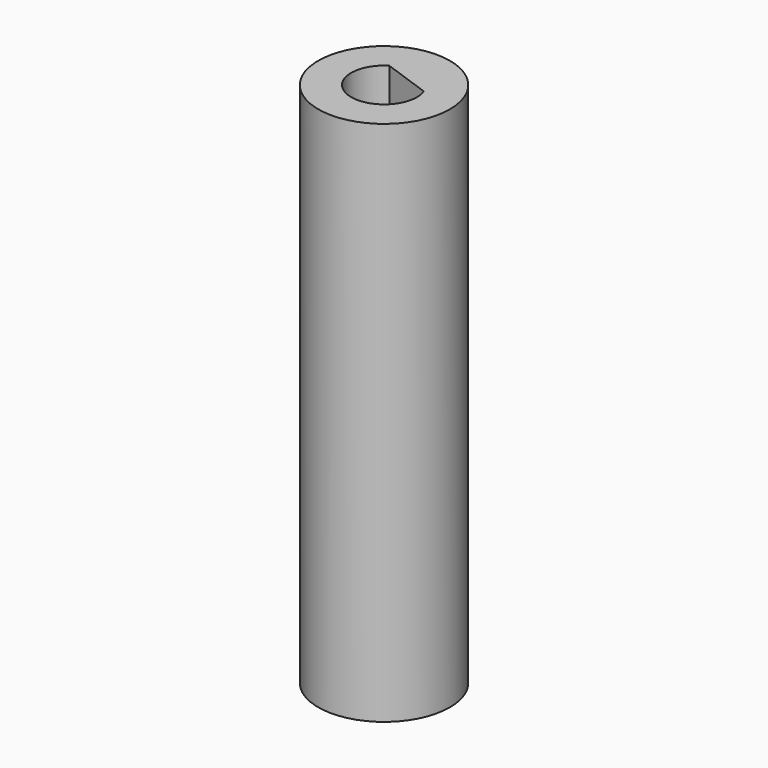
from build123d import *

# Parameters (mm, degrees)
F0_R     = 5
F1_DEPTH = 40
F3_DEPTH = 24
F4_R     = 1.65
F5_DEPTH = 25.4


with BuildPart() as f1:
    # F0 (on Top) → F1 (new body)
    with BuildSketch(Plane.XY):
        Circle(F0_R)
    extrude(amount=F1_DEPTH)

    # F2 (on face) → F3 (cut)
    with BuildSketch(Plane.XY.offset(40)):
        with BuildLine():
            ThreePointArc((-1.309686, 2.129489), (-1.219792, -2.182225), (2.5, 0))
            ThreePointArc((2.5, 0), (2.464167, 0.421758), (2.357696, 0.831425))
            Line((2.357696, 0.831425), (-1.309686, 2.129489))
        make_face()
    extrude(amount=-F3_DEPTH, mode=Mode.SUBTRACT)

    # F4 (on face) → F5 (cut)
    with BuildSketch(Plane(origin=(0, 0, 0), x_dir=(1, 0, 0), z_dir=(0, 0, -1))):
        Circle(F4_R)
    extrude(amount=-F5_DEPTH, mode=Mode.SUBTRACT)


solid = f1.part
